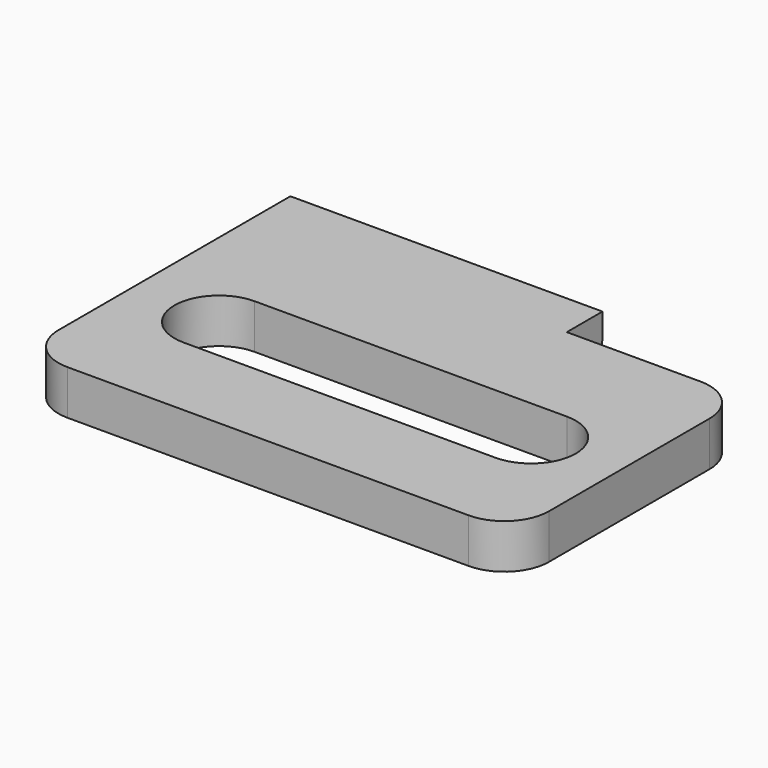
from build123d import *

# Parameters (mm, degrees)
EXTRUDE074_DEPTH = 1
EXTRUDE075_DEPTH = 15
EXTRUDE073_DEPTH = 1


with BuildPart() as extrude074:
    # Sketch271 → Extrude074 (new body)
    with BuildSketch(Plane.XY):
        with BuildLine():
            Line((2, -5.5), (9, -5.5))
            ThreePointArc((9, -5.5), (10, -4.5), (9, -3.5))
            Line((2, -3.5), (9, -3.5))
            ThreePointArc((2, -3.5), (1, -4.5), (2, -5.5))
        make_face()
    extrude(amount=EXTRUDE074_DEPTH)


with BuildPart() as extrude075:
    # Sketch272 → Extrude075 (new body)
    with BuildSketch(Plane.YZ):
        with BuildLine():
            ThreePointArc((-0.5, 0), (-0.146447, 0.146447), (0, 0.5))
            Line((0, 0.5), (0, 0))
            Line((-0.5, 0), (0, 0))
        make_face()
    extrude(amount=EXTRUDE075_DEPTH)


with BuildPart() as cut045:
    # Sketch270 → Extrude073 (new body)
    with BuildSketch(Plane(origin=(0, -0.5, 0), x_dir=(1, 0, 0), z_dir=(0, 0, 1))):
        with BuildLine():
            ThreePointArc((0, -6), (0.292893, -6.707107), (1, -7))
            Line((1, -7), (10, -7))
            ThreePointArc((10, -7), (10.707107, -6.707106), (11, -6))
            Line((11, -6), (11, -1.5))
            ThreePointArc((11, -1.5), (10.707107, -0.792893), (10, -0.5))
            Line((10, -0.5), (7, -0.5))
            Line((7, -0.5), (7, 0.5))
            Line((7, 0.5), (0, 0.5))
            Line((0, 0.5), (0, -6))
        make_face()
    extrude(amount=EXTRUDE073_DEPTH)

    # Cut044: cut Extrude075
    add(extrude075.part, mode=Mode.SUBTRACT)

    # Cut045: cut Extrude074
    add(extrude074.part, mode=Mode.SUBTRACT)


solid = cut045.part
